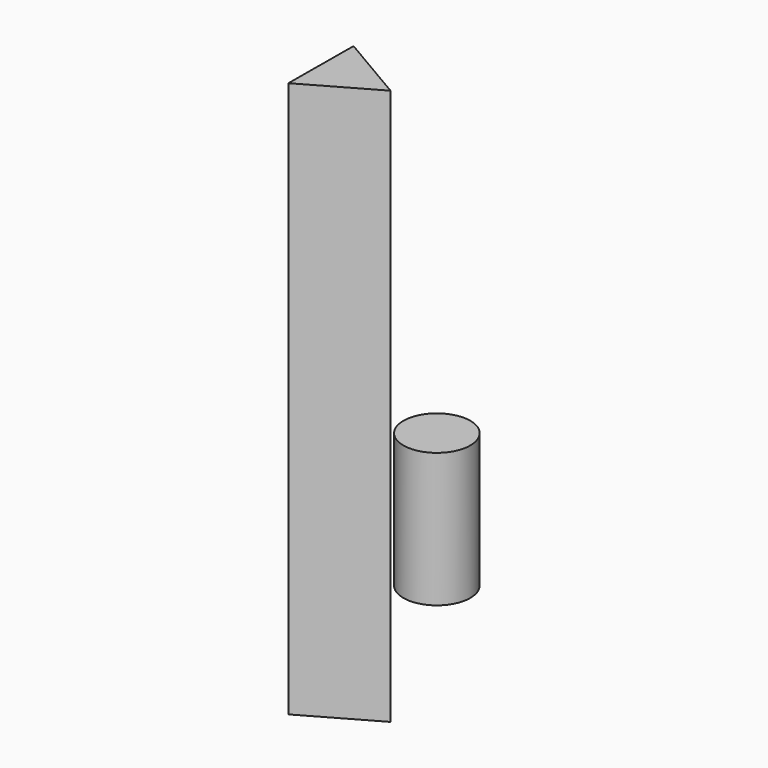
from build123d import *

# Parameters (mm, degrees)
F1_DEPTH      = 269.24
F1_DEPTH_BACK = 187.96
F2_R          = 27.524439
F3_DEPTH      = 25.4
F3_DEPTH_BACK = 85.09


with BuildPart() as f1:
    # F0 (on Top) → F1 (new body, two sides)
    with BuildSketch(Plane.XY) as f1_sk:
        Polygon((-76.297776, 3.298509), (-18.500803, 36.137701), (-75.838864, 69.771752), align=None)
    extrude(amount=F1_DEPTH)
    extrude(f1_sk.sketch, amount=-F1_DEPTH_BACK)


with BuildPart() as f3:
    # F2 (on Top) → F3 (new body, two sides)
    with BuildSketch(Plane.XY) as f3_sk:
        with Locations((9.730418, 48.46666)):
            Circle(F2_R)
    extrude(amount=F3_DEPTH)
    extrude(f3_sk.sketch, amount=-F3_DEPTH_BACK)


solid = Compound([f1.part, f3.part])
